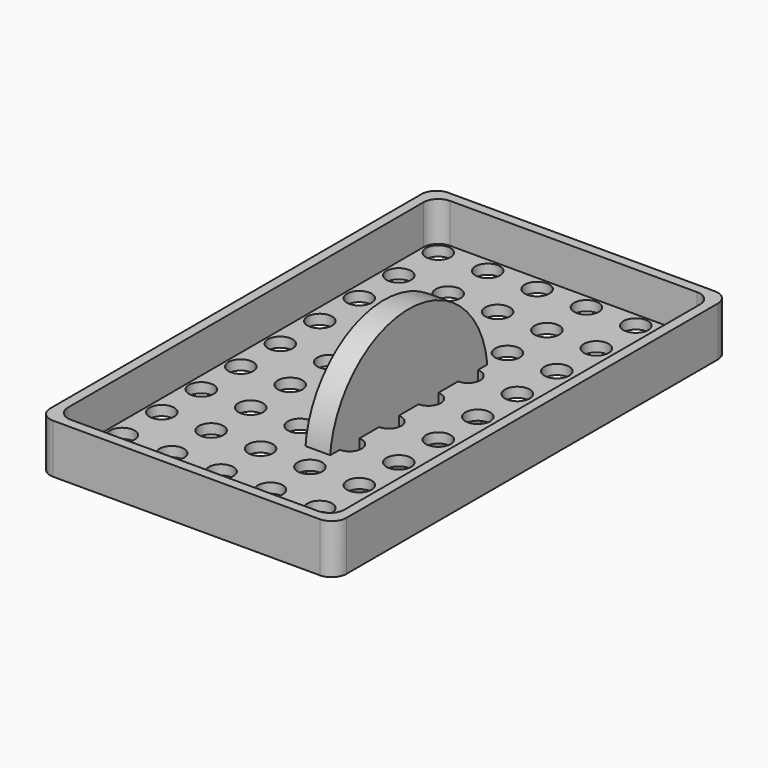
from build123d import *

# Parameters (mm, degrees)
F0_W     = 60
F0_H     = 100
F1_DEPTH = 10
F2_T     = -2
F4_D     = 5
F5_R     = 3
F6_R     = 20
F7_DEPTH = 5


with BuildPart() as f1:
    # F0 (on Top) → F1 (new body)
    with BuildSketch(Plane.XY):
        Rectangle(F0_W, F0_H)
    extrude(amount=F1_DEPTH)

    # F2
    f2_openings = [f1.faces().sort_by_distance(p)[0] for p in [
        (0, 0, 10),
    ]]
    offset(amount=F2_T, openings=f2_openings)

    # F4 (through all)
    with Locations(Plane.XY.offset(2)):
        with Locations((-15, 35), (15, 35), (-25, 45), (-15, 45), (-5, 45), (5, 45), (15, 45), (25, 45), (5, 15), (-15, 25), (25, -5), (-15, 15), (5, -15), (-15, 5), (25, 25), (15, -15), (-25, -15), (15, -25), (-25, 15), (5, -45), (15, 25), (-25, -45), (-15, -45), (15, 15), (-5, -35), (25, -45), (-25, 35), (-5, 5), (-5, -5), (15, -45), (25, 35), (5, -5), (-25, -5), (15, -5), (-25, -25), (-15, -35), (-5, 15), (25, -25), (-5, -15), (5, 5), (5, -25), (25, 15), (5, -35), (25, 5), (-5, -25), (-25, -35), (-15, -5), (-15, -25), (5, 35), (-5, 35), (-25, 25), (-5, 25), (25, -35), (-15, -15), (5, 25), (15, -35), (25, -15), (-25, 5), (15, 5), (-5, -45)):
            Hole(F4_D / 2)

    # F5
    f5_edges = [f1.edges().sort_by_distance(p)[0] for p in [
        (-28, 48, 6),
        (28, 48, 6),
        (-28, -48, 6),
        (28, -48, 6),
        (-30, -50, 5),
        (30, -50, 5),
        (30, 50, 5),
        (-30, 50, 5),
    ]]
    fillet(f5_edges, radius=F5_R)


with BuildPart() as f7:
    # F6 (on Right) → F7 (new body)
    with BuildSketch(Plane.YZ):
        Circle(F6_R)
        with BuildLine():
            ThreePointArc((-1.2, -0.9), (0, 1.5), (1.2, -0.9))
            Line((1.2, -0.9), (-1.2, -0.9))
        make_face(mode=Mode.SUBTRACT)
    extrude(amount=F7_DEPTH)


solid = Compound([f1.part, f7.part])
